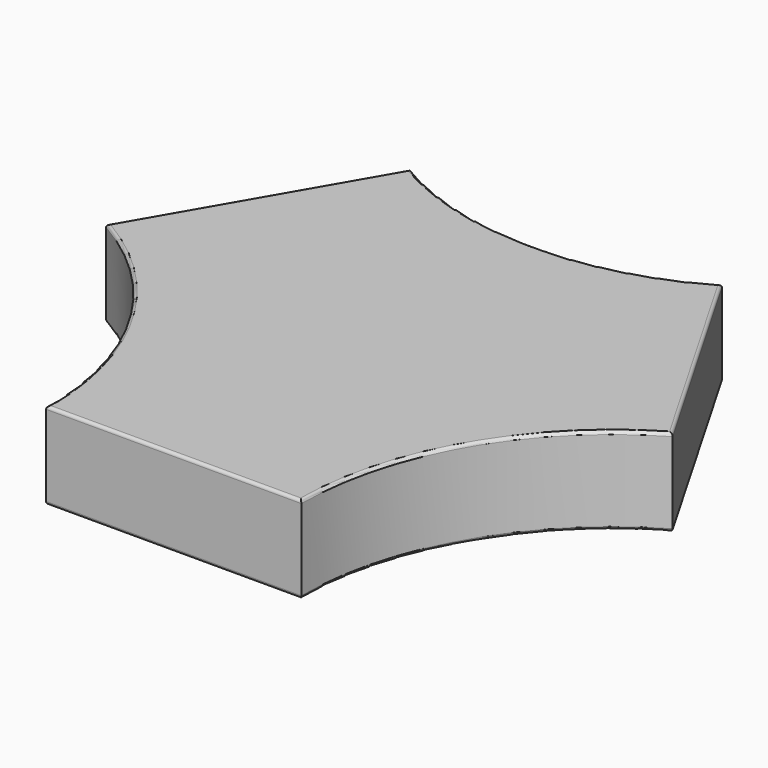
from build123d import *

# Parameters (mm, degrees)
F1_DEPTH = 6
F2_R     = 0.2


with BuildPart() as f1:
    # F0 (on Top) → F1 (new body)
    with BuildSketch(Plane.XY):
        with BuildLine():
            Line((19.560889, 1.119546), (10.75, 16.380454))
            ThreePointArc((10.75, 16.380454), (0, 13.5), (-10.75, 16.380454))
            Line((-10.75, 16.380454), (-19.560889, 1.119546))
            ThreePointArc((-19.560889, 1.119546), (-11.691343, -6.75), (-8.810889, -17.5))
            Line((-8.810889, -17.5), (8.810889, -17.5))
            ThreePointArc((8.810889, -17.5), (11.691343, -6.75), (19.560889, 1.119546))
        make_face()
    extrude(amount=F1_DEPTH)

    # F2
    f2_edges = [f1.edges().sort_by_distance(p)[0] for p in [
        (15.155445, 8.75, 6),
        (0, 13.5, 6),
        (-15.155445, 8.75, 6),
        (-11.691343, -6.75, 6),
        (0, -17.5, 6),
        (11.691343, -6.75, 6),
        (15.155445, 8.75, 0),
        (0, 13.5, 0),
        (-15.155445, 8.75, 0),
        (-11.691343, -6.75, 0),
        (0, -17.5, 0),
        (11.691343, -6.75, 0),
    ]]
    fillet(f2_edges, radius=F2_R)


solid = f1.part
